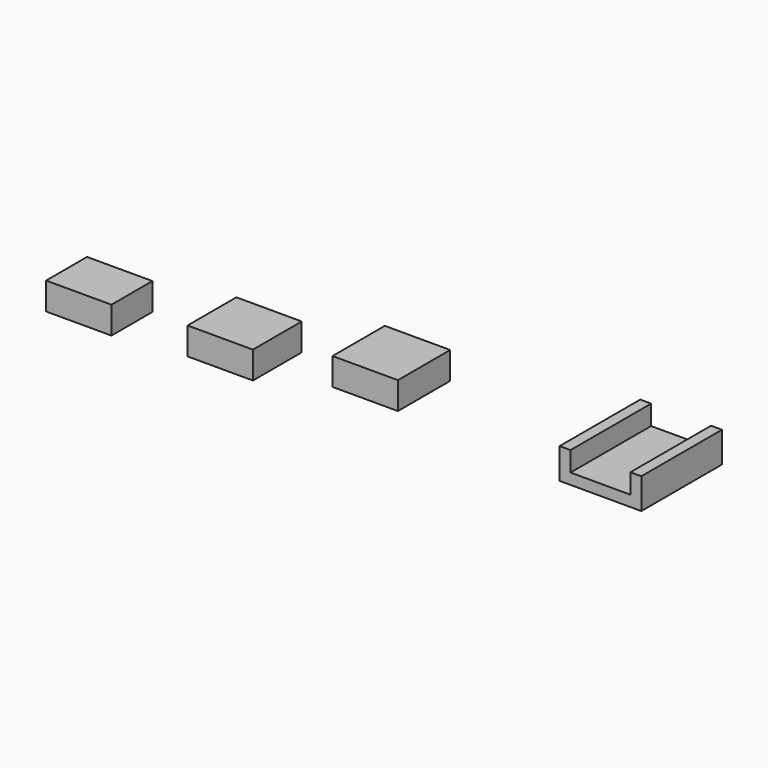
from build123d import *

# Parameters (mm, degrees)
F3_W      = 1200
F3_H      = 1200
F4_DEPTH  = 500
F5_W      = 1200
F5_H      = 1120
F6_DEPTH  = 500
F7_W      = 1200
F7_H      = 940
F8_DEPTH  = 500
F10_DEPTH = 1850


with BuildPart() as f4:
    # F3 (on offset) → F4 (new body)
    with BuildSketch(Plane.XY.offset(5663)):
        with Locations((-1950, -1100)):
            Rectangle(F3_W, F3_H)
    extrude(amount=-F4_DEPTH)


with BuildPart() as f6:
    # F5 (on offset) → F6 (new body)
    with BuildSketch(Plane.XY.offset(7509)):
        with Locations((-1950, -4467)):
            Rectangle(F5_W, F5_H)
    extrude(amount=-F6_DEPTH)


with BuildPart() as f8:
    # F7 (on offset) → F8 (new body)
    with BuildSketch(Plane.XY.offset(9555)):
        with Locations((-1950, -7804)):
            Rectangle(F7_W, F7_H)
    extrude(amount=-F8_DEPTH)


with BuildPart() as f10:
    # F9 (on Front) → F10 (new body)
    with BuildSketch(Plane.XZ):
        Polygon((1938.936245, 5663), (1738.936245, 5663), (1738.936245, 5100), (3238.936245, 5100), (3238.936245, 5663), (3038.936245, 5663), (3038.936245, 5300), (1938.936245, 5300), align=None)
    extrude(amount=F10_DEPTH)


solid = Compound([f4.part, f6.part, f8.part, f10.part])
